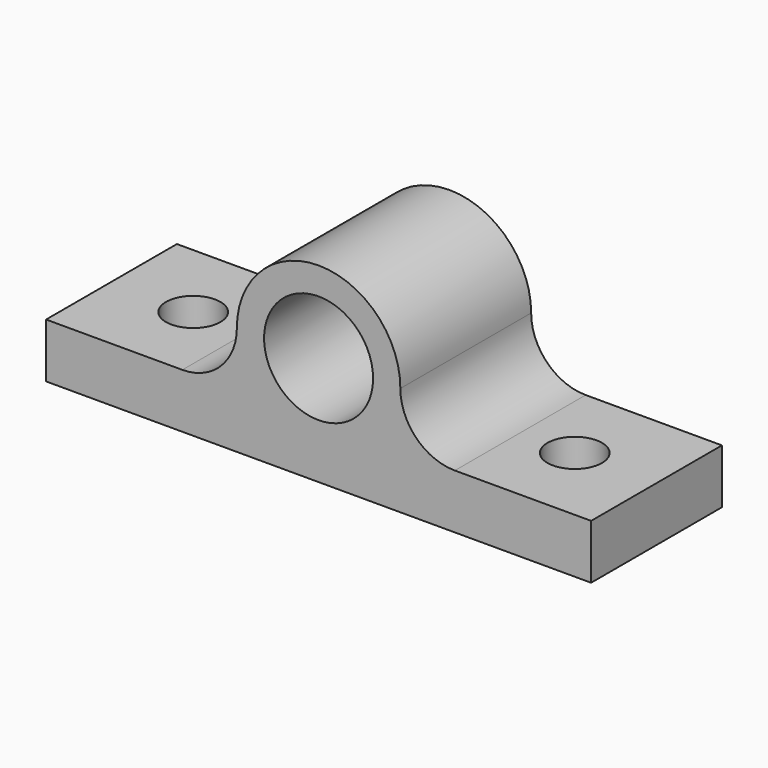
from build123d import *

# Parameters (mm, degrees)
F0_R     = 12.7
F1_DEPTH = 38.1
F2_R     = 6.35
F3_DEPTH = 25.4
F4_R     = 6.35
F5_DEPTH = 25.4


with BuildPart() as f1:
    # F0 (on Front) → F1 (new body)
    with BuildSketch(Plane.XZ):
        with BuildLine():
            Line((-63.5, 0), (0, 0))
            Line((0, 0), (63.5, 0))
            Line((63.5, 0), (63.5, 12.7))
            Line((63.5, 12.7), (31.75, 12.7))
            ThreePointArc((31.75, 12.7), (22.769744, 16.419744), (19.05, 25.4))
            ThreePointArc((19.05, 25.4), (0, 44.45), (-19.05, 25.4))
            ThreePointArc((-19.05, 25.4), (-22.769744, 16.419744), (-31.75, 12.7))
            Line((-31.75, 12.7), (-63.5, 12.7))
            Line((-63.5, 12.7), (-63.5, 0))
        make_face()
        with Locations((0, 25.4)):
            Circle(F0_R, mode=Mode.SUBTRACT)
    extrude(amount=F1_DEPTH)

    # F2 (on face) → F3 (cut)
    with BuildSketch(Plane.XY.offset(12.7)):
        with Locations((44.45, -19.05)):
            Circle(F2_R)
    extrude(amount=-F3_DEPTH, mode=Mode.SUBTRACT)

    # F4 (on face) → F5 (cut)
    with BuildSketch(Plane.XY.offset(12.7)):
        with Locations((-44.45, -19.05)):
            Circle(F4_R)
    extrude(amount=-F5_DEPTH, mode=Mode.SUBTRACT)


solid = f1.part
